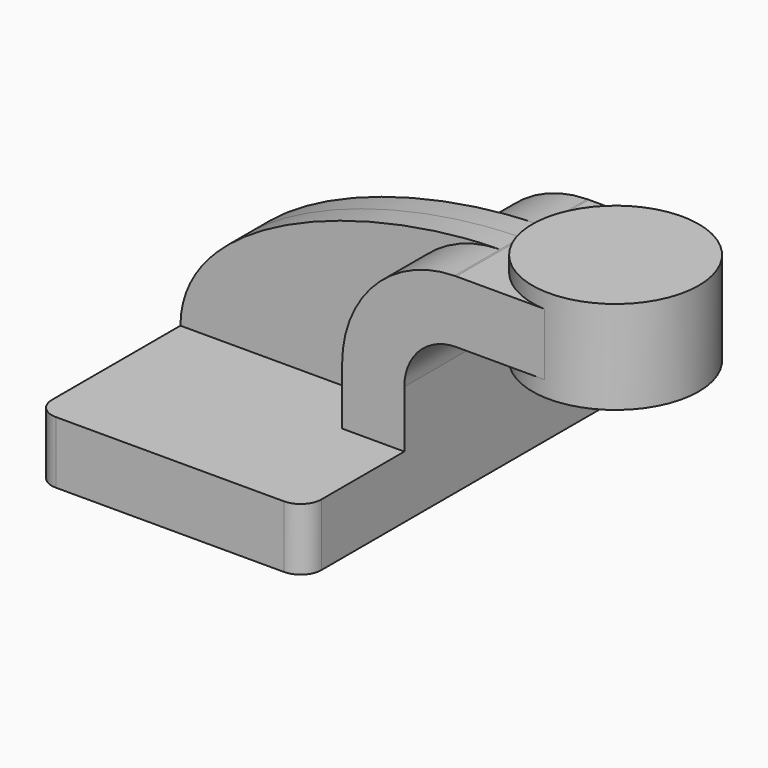
from build123d import *

# Parameters (mm, degrees)
F1_DEPTH = 63.5
F0_W     = 25.321943797
F0_H     = 19.0500000095
F2_DEPTH = 25.4
F3_DEPTH = 7.9375
F5_R     = 6.35


with BuildPart() as f1:
    # F0 (on Front) → F1 (new body, symmetric)
    with BuildSketch(Plane.XZ):
        Polygon((-41.275, -9.525), (41.275, -9.525), (41.275, 9.525), (22.2249999905, 9.525), (-41.275, 9.525), align=None)
    extrude(amount=F1_DEPTH, both=True)

    # F0 (on Front) → F2 (join, symmetric)
    with BuildSketch(Plane.XZ):
        with BuildLine():
            Line((22.2249999905, 9.525), (41.275, 9.525))
            Line((41.275, 9.525), (41.275, 27.0002))
            ThreePointArc((41.275, 27.0002), (45.9246798487, 38.2255201513), (57.15, 42.8752))
            Line((57.15, 42.8752), (60.325, 42.8752))
            Line((60.325, 42.8752), (60.325, 61.9252000095))
            Line((60.325, 61.9252000095), (57.15, 61.9252000095))
            add(Edge.make_bspline(
                [(56.6683326468, 61.9218783993), (56.8291323024, 61.9232802391), (56.9896895414, 61.9243875651), (57.15, 61.9252000095)],
                knots=[111.0688371273, 111.0688371273, 111.0688371273, 111.0688371273, 111.504536168, 111.504536168, 111.504536168, 111.504536168], degree=3))
            ThreePointArc((56.6683326468, 61.9218783993), (32.2845836755, 51.5250179743), (22.2249999905, 27.0002))
            Line((22.2249999905, 27.0002), (22.2249999905, 9.525))
        make_face()
        with Locations((72.9859718985, 52.4002000047)):
            Rectangle(F0_W, F0_H)
    extrude(amount=F2_DEPTH, both=True)

    # F0 (on Front) → F3 (join, symmetric)
    with BuildSketch(Plane.XZ):
        with BuildLine():
            add(Edge.make_bspline(
                [(-41.275, 9.525), (-41.0674608096, 42.0682643525), (15.677122914, 61.5645199919), (56.6683326468, 61.9218783993)],
                knots=[0, 0, 0, 0, 111.0688371273, 111.0688371273, 111.0688371273, 111.0688371273], degree=3))
            Line((-41.275, 9.525), (22.2249999905, 9.525))
            Line((22.2249999905, 9.525), (22.2249999905, 27.0002))
            ThreePointArc((22.2249999905, 27.0002), (32.2845836755, 51.5250179743), (56.6683326468, 61.9218783993))
        make_face()
    extrude(amount=F3_DEPTH, both=True)

    # F5
    f5_edges = [f1.edges().sort_by_distance(p)[0] for p in [
        (-41.275, -63.5, 0),
        (41.275, -63.5, 0),
        (41.275, 63.5, 0),
        (-41.275, 63.5, 0),
    ]]
    fillet(f5_edges, radius=F5_R)


with BuildPart() as f4:
    # F0 (on Front) → F4 (revolve)
    with BuildSketch(Plane.XZ):
        Polygon((85.646943797, 61.9252000095), (85.646943797, 42.8752), (85.646943797, 38.1), (111.125, 38.1), (111.125, 66.675), (85.646943797, 66.675), align=None)
    revolve(axis=Axis((85.646943797, 0, 52.3875), (0, 0, 1)))


solid = Compound([f1.part, f4.part])
